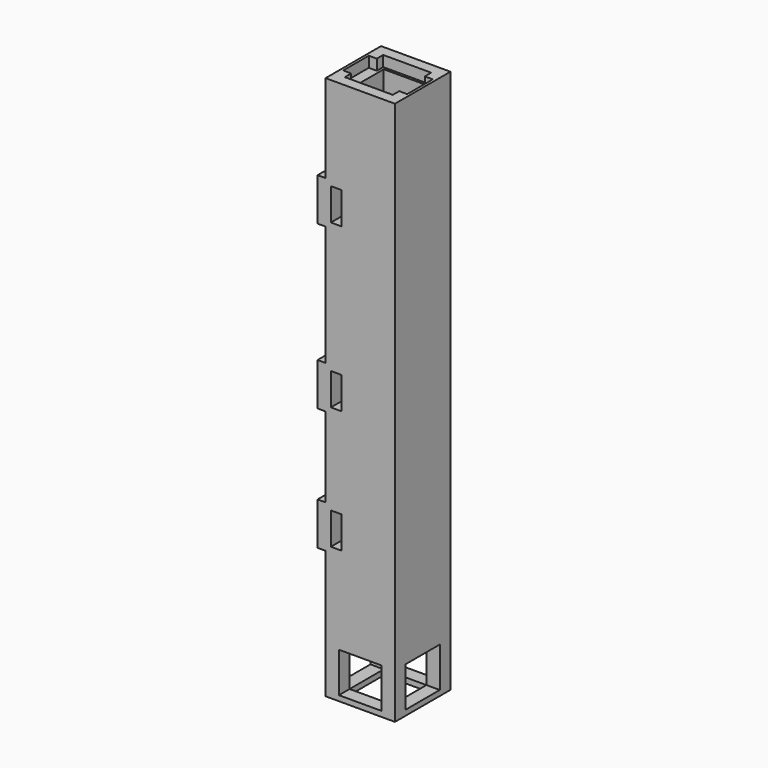
from build123d import *

# Parameters (mm, degrees)
F0_W      = 26
F0_H      = 26
F0_W_2    = 16
F0_H_2    = 16
F1_DEPTH  = 2
F2_DEPTH  = 200
F3_W      = 26
F3_H      = 26
F3_W_2    = 18
F3_H_2    = 18
F4_DEPTH  = 4
F6_DEPTH  = 25
F7_W      = 3
F7_H      = 16
F8_DEPTH  = 26
F9_W      = 4
F9_H      = 12
F10_DEPTH = 20
F11_W     = 16
F11_H     = 15
F12_DEPTH = 40
F13_W     = 16
F13_H     = 15
F14_DEPTH = 40
F15_W     = 4
F15_H     = 12
F16_DEPTH = 20
F17_W     = 3
F17_H     = 12
F18_DEPTH = 4


with BuildPart() as f1:
    # F0 (on Top) → F1 (new body)
    with BuildSketch(Plane.XY):
        Rectangle(F0_W, F0_H)
        Rectangle(F0_W_2, F0_H_2, mode=Mode.SUBTRACT)
        Rectangle(F0_W, F0_H)
        Rectangle(F0_W_2, F0_H_2, mode=Mode.SUBTRACT)
        Rectangle(F0_W_2, F0_H_2)
    extrude(amount=F1_DEPTH)

    # F0 (on Top) → F2 (join)
    with BuildSketch(Plane.XY):
        Rectangle(F0_W, F0_H)
        Rectangle(F0_W_2, F0_H_2, mode=Mode.SUBTRACT)
        Rectangle(F0_W, F0_H)
        Rectangle(F0_W_2, F0_H_2, mode=Mode.SUBTRACT)
    extrude(amount=F2_DEPTH)

    # F3 (on face) → F4 (join)
    with BuildSketch(Plane.XY.offset(200)):
        Rectangle(F3_W, F3_H)
        Rectangle(F3_W_2, F3_H_2, mode=Mode.SUBTRACT)
    extrude(amount=F4_DEPTH)

    # F0 (on Top) → F6 (cut)
    with BuildSketch(Plane.XY):
        Rectangle(F0_W_2, F0_H_2)
    extrude(amount=F6_DEPTH, mode=Mode.SUBTRACT)

    # F7 (on face) → F8 (join)
    with BuildSketch(Plane.XZ.offset(13)):
        with Locations((-14.5, 163)):
            Rectangle(F7_W, F7_H)
        with Locations((-14.5, 102)):
            Rectangle(F7_W, F7_H)
        with Locations((-14.5, 56)):
            Rectangle(F7_W, F7_H)
    extrude(amount=-F8_DEPTH)

    # F9 (on face) → F10 (cut)
    with BuildSketch(Plane.XZ.offset(13)):
        with Locations((-9, 163)):
            Rectangle(F9_W, F9_H)
    extrude(amount=-F10_DEPTH, mode=Mode.SUBTRACT)

    # F11 (on face) → F12 (cut)
    with BuildSketch(Plane.XZ.offset(13)):
        with Locations((0, 9.5)):
            Rectangle(F11_W, F11_H)
    extrude(amount=-F12_DEPTH, mode=Mode.SUBTRACT)

    # F13 (on face) → F14 (cut)
    with BuildSketch(Plane.YZ.offset(13)):
        with Locations((0, 9.5)):
            Rectangle(F13_W, F13_H)
    extrude(amount=-F14_DEPTH, mode=Mode.SUBTRACT)

    # F15 (on face) → F16 (cut)
    with BuildSketch(Plane.XZ.offset(13)):
        with Locations((-9, 102)):
            Rectangle(F15_W, F15_H)
        with Locations((-9, 56)):
            Rectangle(F15_W, F15_H)
    extrude(amount=-F16_DEPTH, mode=Mode.SUBTRACT)

    # F17 (on face) → F18 (cut)
    with BuildSketch(Plane.XY.offset(204)):
        with Locations((-10.5, 0)):
            Rectangle(F17_W, F17_H)
        with Locations((10.5, 0)):
            Rectangle(F17_W, F17_H)
    extrude(amount=-F18_DEPTH, mode=Mode.SUBTRACT)


solid = f1.part
